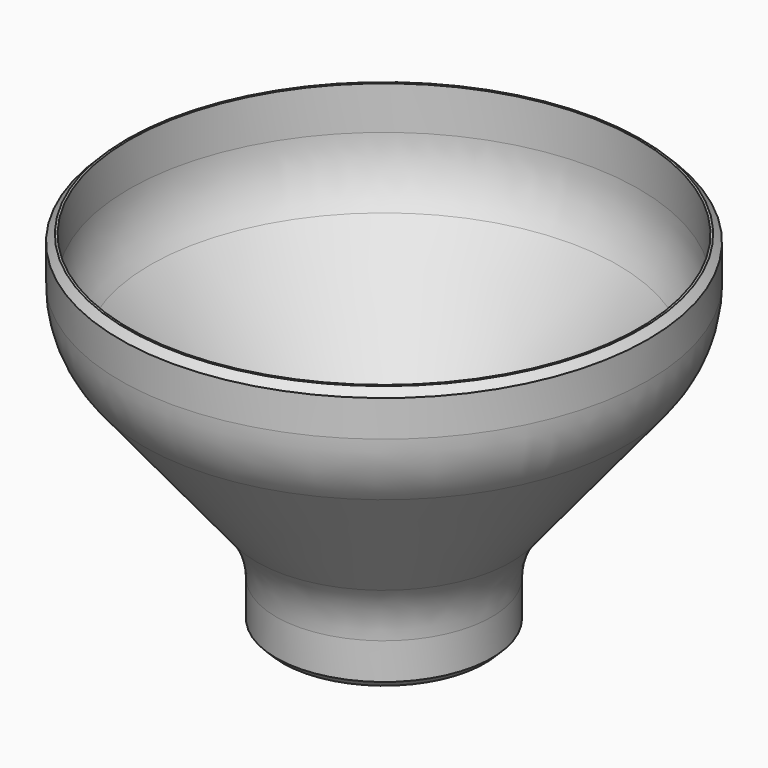
from build123d import *

# Parameters (mm, degrees)
F2_SIZE = 4


with BuildPart() as f1:
    # F0 (on Front) → F1 (revolve)
    with BuildSketch(Plane.XZ):
        with BuildLine():
            Line((-147.78, 125.353982), (-153, 125.353982))
            Line((-153, 125.353982), (-153, 100.353982))
            ThreePointArc((-153, 100.353982), (-149.515286, 80.203983), (-139.465919, 62.394551))
            Line((-139.465919, 62.394551), (-73.778401, -18.01316))
            ThreePointArc((-73.778401, -18.01316), (-65.403928, -32.854353), (-62.5, -49.646018))
            Line((-62.5, -49.646018), (-62.5, -74.646018))
            Line((-62.5, -74.646018), (-57.28, -74.646018))
            Line((-57.28, -74.646018), (-57.28, -49.646018))
            ThreePointArc((-57.28, -49.646018), (-60.487098, -31.101303), (-69.735866, -14.710689))
            Line((-69.735866, -14.710689), (-135.423384, 65.697021))
            ThreePointArc((-135.423384, 65.697021), (-144.598456, 81.957033), (-147.78, 100.353982))
            Line((-147.78, 100.353982), (-147.78, 125.353982))
        make_face()
    revolve(axis=Axis((0, 0, 32.767496), (0, 0, 1)))

    # F2
    f2_edges = [f1.edges().sort_by_distance(p)[0] for p in [
        (153, 0, 125.353982),
        (62.5, 0, -74.646018),
    ]]
    chamfer(f2_edges, length=F2_SIZE)


solid = f1.part
